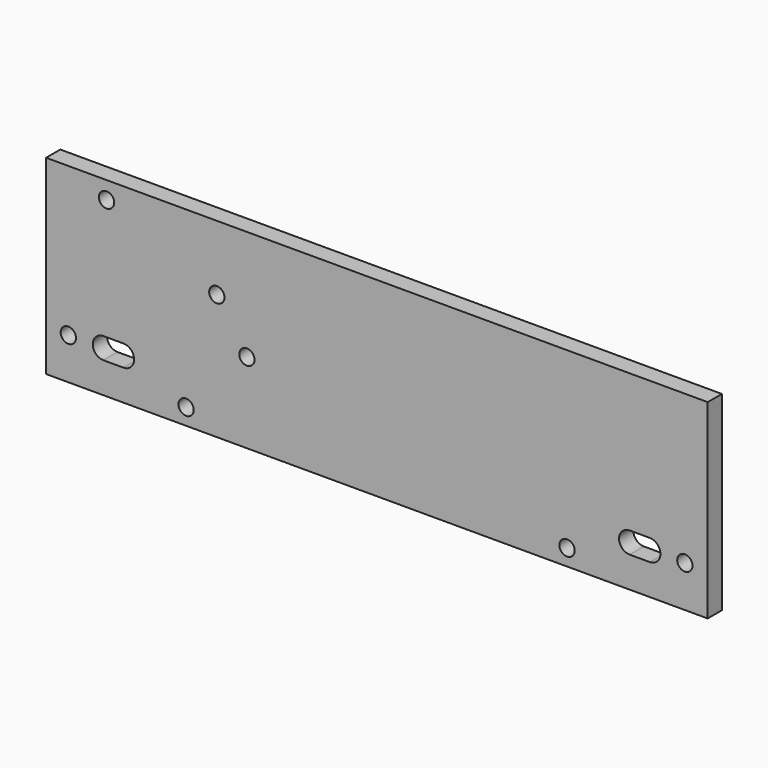
from build123d import *

# Parameters (mm, degrees)
F0_W     = 419.1
F0_H     = 120.65
F1_DEPTH = 5.6261
F2_R     = 4.8387
F3_DEPTH = 11.2532
F5_DEPTH = 11.2532


with BuildPart() as f1:
    # F0 (on Front) → F1 (new body, symmetric)
    with BuildSketch(Plane.XZ):
        with Locations((209.55, 60.325)):
            Rectangle(F0_W, F0_H)
    extrude(amount=F1_DEPTH, both=True)

    # F2 (on face) → F3 (cut, through all)
    with BuildSketch(Plane.XZ.offset(5.6261)):
        with Locations((14.097, 26.2636)):
            Circle(F2_R)
        with Locations((38.3032, 109.601)):
            Circle(F2_R)
        with Locations((108.1532, 79.4512)):
            Circle(F2_R)
        with Locations((329.9968, 10.3886)):
            Circle(F2_R)
        with Locations((88.6968, 10.3886)):
            Circle(F2_R)
        with Locations((127.2032, 50.8762)):
            Circle(F2_R)
        with Locations((404.622, 26.2636)):
            Circle(F2_R)
    extrude(amount=-F3_DEPTH, mode=Mode.SUBTRACT)

    # F4 (on face) → F5 (cut, through all)
    with BuildSketch(Plane.XZ.offset(5.6261)):
        with BuildLine():
            Line((49.022, 33.0073), (36.322, 33.0073))
            ThreePointArc((36.322, 33.0073), (29.5783, 26.2636), (36.322, 19.5199))
            Line((36.322, 19.5199), (49.022, 19.5199))
            ThreePointArc((49.022, 19.5199), (55.7657, 26.2636), (49.022, 33.0073))
        make_face()
        with BuildLine():
            Line((382.397, 33.0073), (369.697, 33.0073))
            ThreePointArc((369.697, 33.0073), (362.9533, 26.2636), (369.697, 19.5199))
            Line((369.697, 19.5199), (382.397, 19.5199))
            ThreePointArc((382.397, 19.5199), (389.1407, 26.2636), (382.397, 33.0073))
        make_face()
    extrude(amount=-F5_DEPTH, mode=Mode.SUBTRACT)


solid = f1.part
